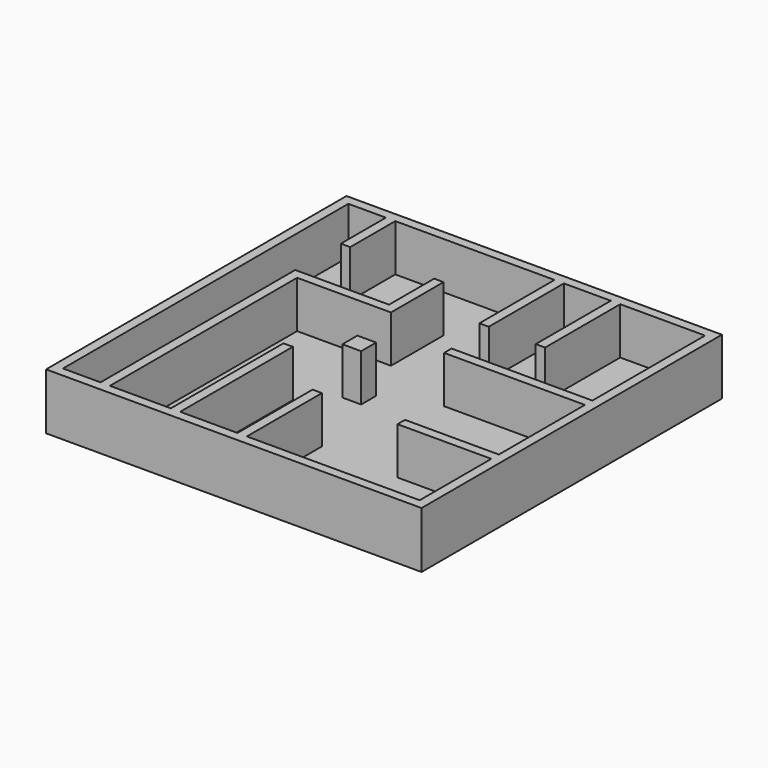
from build123d import *

# Parameters (mm, degrees)
F0_W      = 50.8
F0_H      = 50.8
F1_DEPTH  = 7.62
F2_T      = -1.27
F3_W      = 1.27
F3_H      = 31.657300781
F3_H_2    = 7.62
F3_H_3    = 12.7
F3_W_2    = 19.05
F3_H_4    = 1.27
F3_H_5    = 19.05
F3_W_3    = 12.7
F3_W_4    = 2.54
F3_H_6    = 2.54
F4_DEPTH  = 6.35
F5_R      = 1.27
F6_DEPTH  = 25.4
F7_R      = 1.27
F8_DEPTH  = 25.4
F9_R      = 1.27
F10_DEPTH = 25.4
F11_R     = 1.27
F12_DEPTH = 25.4


with BuildPart() as f1:
    # F0 (on Top) → F1 (new body)
    with BuildSketch(Plane.XY):
        with Locations((25.4, 25.4)):
            Rectangle(F0_W, F0_H)
    extrude(amount=-F1_DEPTH)

    # F2
    f2_openings = [f1.faces().sort_by_distance(p)[0] for p in [
        (25.4, 25.4, 0),
    ]]
    offset(amount=F2_T, openings=f2_openings)

    # F3 (on face) → F4 (join)
    with BuildSketch(Plane.XY.offset(-6.35)):
        with Locations((6.985, 17.0986503905)):
            Rectangle(F3_W, F3_H)
        Polygon((6.35, 34.197300781), (6.35, 32.927300781), (7.62, 32.927300781), (20.32, 32.927300781), (20.32, 41.817300781), (19.05, 41.817300781), (19.05, 34.197300781), align=None)
        with Locations((6.985, 45.72)):
            Rectangle(F3_W, F3_H_2)
        with Locations((29.7986493057, 43.18)):
            Rectangle(F3_W, F3_H_3)
        with Locations((40.005, 29.8451691666)):
            Rectangle(F3_W_2, F3_H_4)
        with Locations((37.4186493057, 43.18)):
            Rectangle(F3_W, F3_H_3)
        with Locations((16.496093998, 10.795)):
            Rectangle(F3_W, F3_H_5)
        with Locations((43.18, 14.0302554315)):
            Rectangle(F3_W_3, F3_H_4)
        with Locations((25.515874902, 7.62)):
            Rectangle(F3_W, F3_H_3)
        with Locations((22.1276638252, 25.3072996777)):
            Rectangle(F3_W_4, F3_H_6)
    extrude(amount=F4_DEPTH)

    # F5 (on face) → F6 (cut)
    with BuildSketch(Plane.XY.offset(-6.35)):
        with Locations((33.2517512143, 45.72)):
            Circle(F5_R)
    extrude(amount=-F6_DEPTH, mode=Mode.SUBTRACT)

    # F7 (on face) → F8 (cut)
    with BuildSketch(Plane.XY.offset(-6.35)):
        with Locations((12.051093998, 7.1008764207)):
            Circle(F7_R)
    extrude(amount=-F8_DEPTH, mode=Mode.SUBTRACT)

    # F9 (on face) → F10 (cut)
    with BuildSketch(Plane.XY.offset(-6.35)):
        with Locations((3.81, 3.81)):
            Circle(F9_R)
    extrude(amount=-F10_DEPTH, mode=Mode.SUBTRACT)

    # F11 (on face) → F12 (cut)
    with BuildSketch(Plane.XY.offset(-6.35)):
        with Locations((3.81, 10.16)):
            Circle(F11_R)
    extrude(amount=-F12_DEPTH, mode=Mode.SUBTRACT)


solid = f1.part
